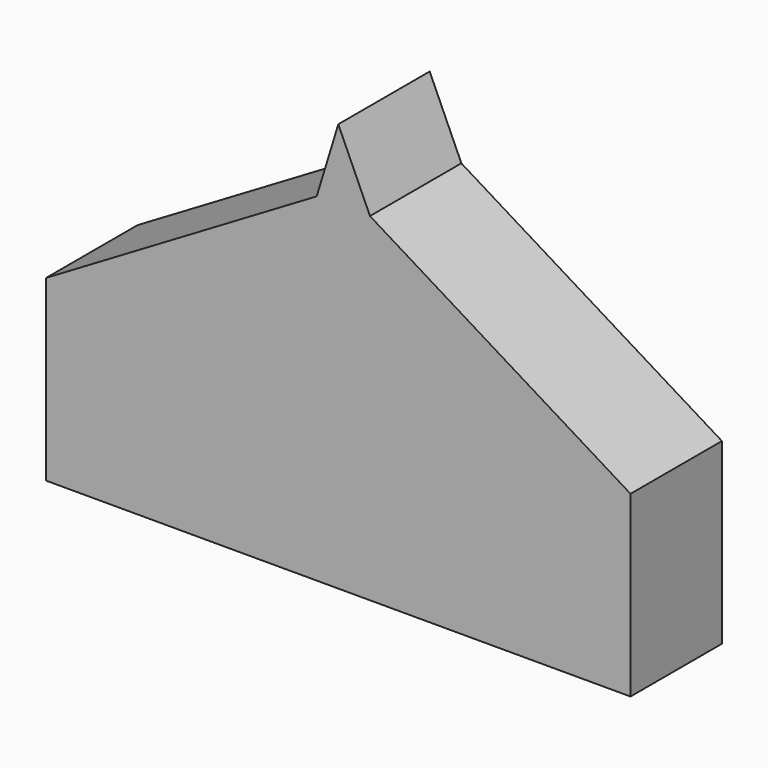
from build123d import *

# Parameters (mm, degrees)
F0_W     = 129.936234
F0_H     = 39.681322
F1_DEPTH = 25.4


with BuildPart() as f1:
    # F0 (on Front) → F1 (new body)
    with BuildSketch(Plane.XZ):
        Rectangle(F0_W, F0_H)
        Polygon((-4.8006, 55.365101), (-64.968117, 19.840661), (64.968117, 19.840661), (7.040879, 55.365101), align=None)
        Polygon((0, 71.04706), (-4.8006, 55.365101), (7.040879, 55.365101), align=None)
    extrude(amount=F1_DEPTH)


solid = f1.part
